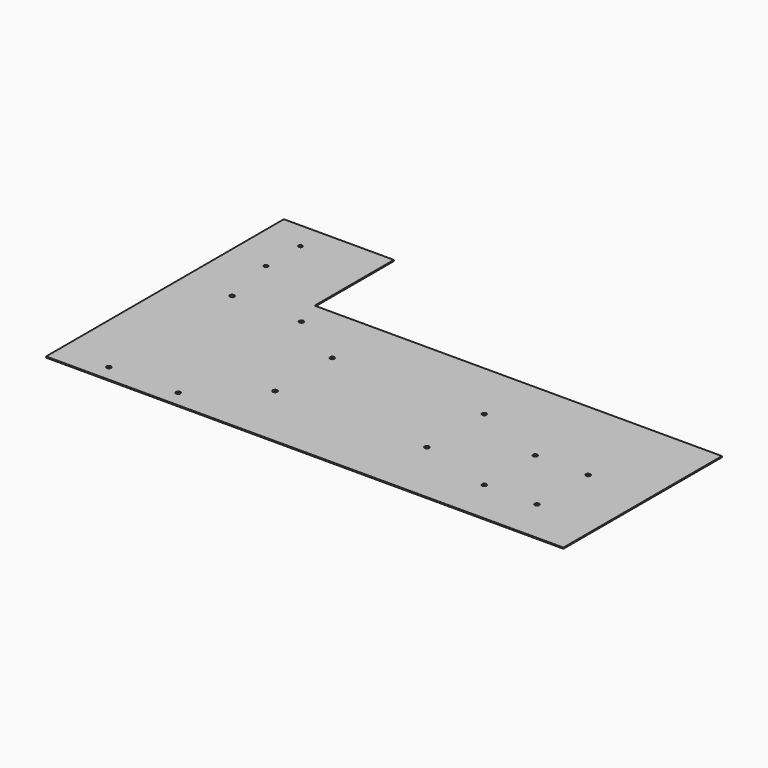
from build123d import *

# Parameters (mm, degrees)
F1_DEPTH = 1
F2_R     = 2
F3_DEPTH = 1
F4_R     = 2
F5_DEPTH = 25
F6_R     = 2
F7_DEPTH = 25
F8_R     = 1.75
F9_DEPTH = 25


with BuildPart() as f1:
    # F0 (on Top) → F1 (new body)
    with BuildSketch(Plane.XY):
        Polygon((-235, 90), (-235, -90), (235, -90), (235, 90), (-135, 90), (-135, 180), (-235, 180), align=None)
    extrude(amount=F1_DEPTH)

    # F2 (on face) → F3 (cut, through all)
    with BuildSketch(Plane.XY.offset(1)):
        with Locations((-127, 65)):
            Circle(F2_R)
        with Locations((-190, 65)):
            Circle(F2_R)
        with Locations((-127, -75)):
            Circle(F2_R)
        with Locations((-190, -75)):
            Circle(F2_R)
    extrude(amount=-F3_DEPTH, mode=Mode.SUBTRACT)

    # F4 (on face) → F5 (cut)
    with BuildSketch(Plane.XY.offset(1)):
        with Locations((-75, 35)):
            Circle(F4_R)
        with Locations((63, 35)):
            Circle(F4_R)
        with Locations((-75, -30)):
            Circle(F4_R)
        with Locations((63, -30)):
            Circle(F4_R)
    extrude(amount=-F5_DEPTH, mode=Mode.SUBTRACT)

    # F6 (on face) → F7 (cut)
    with BuildSketch(Plane.XY.offset(1)):
        with Locations((131, 8)):
            Circle(F6_R)
        with Locations((131, -50)):
            Circle(F6_R)
        with Locations((179, 8)):
            Circle(F6_R)
        with Locations((179, -50)):
            Circle(F6_R)
    extrude(amount=-F7_DEPTH, mode=Mode.SUBTRACT)

    # F8 (on face) → F9 (cut)
    with BuildSketch(Plane.XY.offset(1)):
        with Locations((-200, 155)):
            Circle(F8_R)
        with Locations((-200, 115.9)):
            Circle(F8_R)
    extrude(amount=-F9_DEPTH, mode=Mode.SUBTRACT)


solid = f1.part
